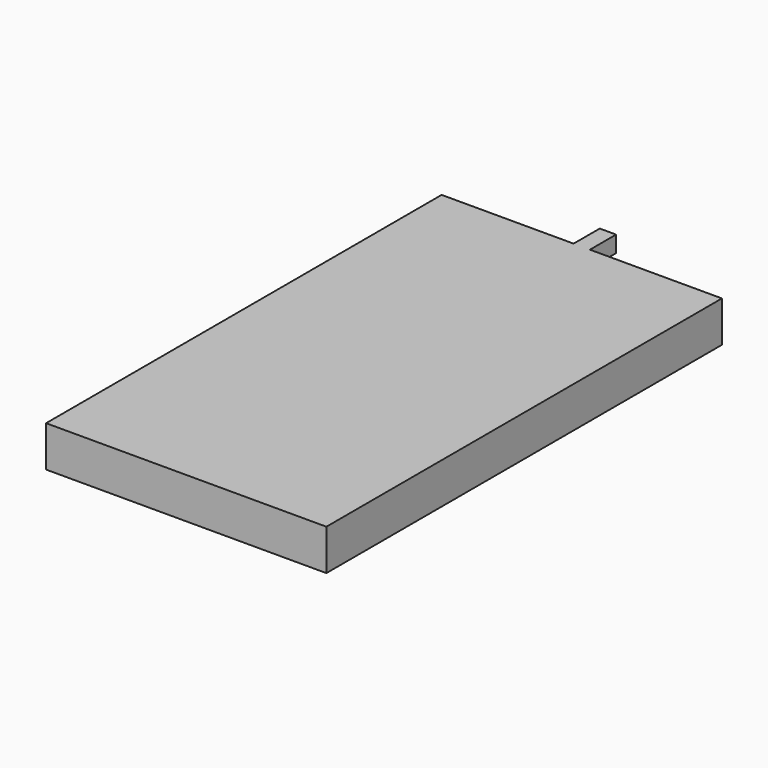
from build123d import *

# Parameters (mm, degrees)
SKETCH_W     = 34.3
SKETCH_H     = 60.5
PAD_DEPTH    = 2.5
SKETCH001_W  = 2
SKETCH001_H  = 2
PAD001_DEPTH = 4


with BuildPart() as part:
    # Sketch → Pad (new body, symmetric)
    with BuildSketch(Plane.XY):
        Rectangle(SKETCH_W, SKETCH_H)
    extrude(amount=PAD_DEPTH, both=True)

    # Sketch001 → Pad001 (new body)
    with BuildSketch(Plane(origin=(0, 30.25, 0), x_dir=(-1, 0, 0), z_dir=(0, 1, 0))):
        with Locations((0, 1.5)):
            Rectangle(SKETCH001_W, SKETCH001_H)
    extrude(amount=PAD001_DEPTH)


solid = part.part
